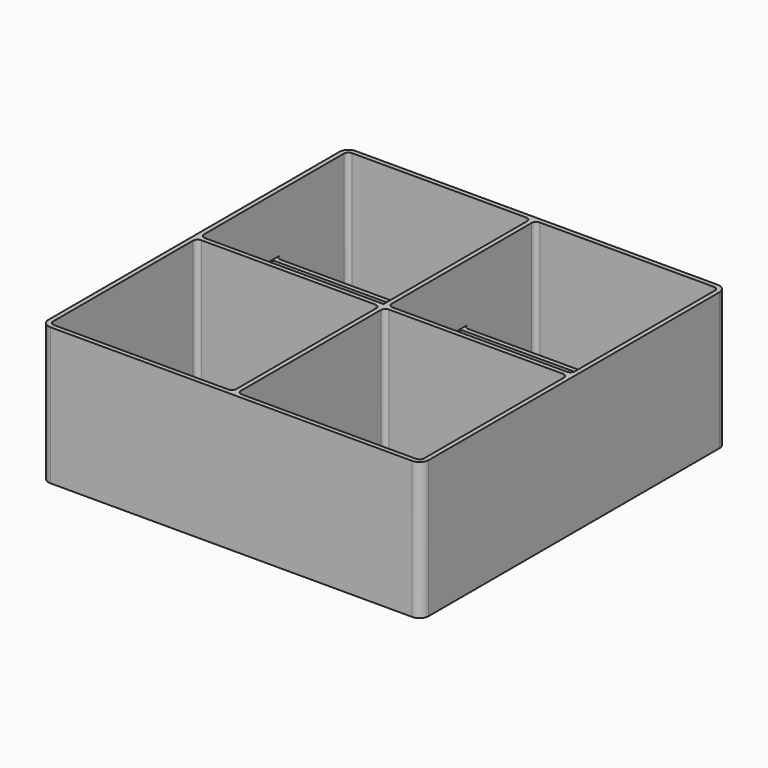
from build123d import *

# Parameters (mm, degrees)
F0_W      = 231
F0_H      = 100
F1_DEPTH  = 36
F2_W      = 48
F2_H      = 23.5
F2_H_2    = 48.2
F3_DEPTH  = 35.8
F4_W      = 48
F4_H      = 1.2
F5_DEPTH  = 15
F6_W      = 48
F6_H      = 97.6
F6_W_2    = 81
F7_DEPTH  = 35.8
F8_R      = 2.4
F9_R      = 1.2
F10_W     = 145.4325905085
F10_H     = 144.5563584566
F11_DEPTH = 40
F12_R     = 2.4


with BuildPart() as f1:
    # F0 (on Top) → F1 (new body)
    with BuildSketch(Plane.XY):
        Rectangle(F0_W, F0_H)
    extrude(amount=F1_DEPTH)

    # F2 (on face) → F3 (cut)
    with BuildSketch(Plane.XY.offset(36)):
        with Locations((41.1, 37.05)):
            Rectangle(F2_W, F2_H)
        with Locations((90.3, 37.05)):
            Rectangle(F2_W, F2_H)
        with Locations((41.1, 12.35)):
            Rectangle(F2_W, F2_H)
        with Locations((90.3, 12.35)):
            Rectangle(F2_W, F2_H)
        with Locations((41.1, -24.7)):
            Rectangle(F2_W, F2_H_2)
        with Locations((90.3, -24.7)):
            Rectangle(F2_W, F2_H_2)
    extrude(amount=-F3_DEPTH, mode=Mode.SUBTRACT)

    # F4 (on face) → F5 (cut)
    with BuildSketch(Plane.XY.offset(36)):
        with Locations((41.1, 24.7)):
            Rectangle(F4_W, F4_H)
        with Locations((90.3, 24.7)):
            Rectangle(F4_W, F4_H)
    extrude(amount=-F5_DEPTH, mode=Mode.SUBTRACT)

    # F6 (on face) → F7 (cut)
    with BuildSketch(Plane.XY.offset(36)):
        with Locations((-90.3, 0)):
            Rectangle(F6_W, F6_H)
        with Locations((-24.6, 0)):
            Rectangle(F6_W_2, F6_H)
    extrude(amount=-F7_DEPTH, mode=Mode.SUBTRACT)

    # F8
    f8_edges = [f1.edges().sort_by_distance(p)[0] for p in [
        (-115.5, -50, 18),
        (-115.5, 50, 18),
        (115.5, 50, 18),
        (115.5, -50, 18),
    ]]
    fillet(f8_edges, radius=F8_R)

    # F9
    f9_edges = [f1.edges().sort_by_distance(p)[0] for p in [
        (-90.3, 48.8, 0.2),
        (-114.3, 0, 0.2),
        (-90.3, -48.8, 0.2),
        (-66.3, 0, 0.2),
        (-24.6, 48.8, 0.2),
        (-65.1, 0, 0.2),
        (-24.6, -48.8, 0.2),
        (15.9, 0, 0.2),
        (41.1, 25.3, 0.2),
        (65.1, 37.05, 0.2),
        (41.1, 48.8, 0.2),
        (17.1, 37.05, 0.2),
        (114.3, 37.05, 0.2),
        (90.3, 48.8, 0.2),
        (66.3, 37.05, 0.2),
        (90.3, 25.3, 0.2),
        (65.1, 12.35, 0.2),
        (41.1, 24.1, 0.2),
        (17.1, 12.35, 0.2),
        (41.1, 0.6, 0.2),
        (90.3, 0.6, 0.2),
        (114.3, 12.35, 0.2),
        (90.3, 24.1, 0.2),
        (66.3, 12.35, 0.2),
        (17.1, -24.7, 0.2),
        (41.1, -48.8, 0.2),
        (65.1, -24.7, 0.2),
        (41.1, -0.6, 0.2),
        (114.3, -24.7, 0.2),
        (90.3, -0.6, 0.2),
        (66.3, -24.7, 0.2),
        (90.3, -48.8, 0.2),
        (-114.3, 48.8, 18.1),
        (-65.1, 48.8, 18.1),
        (-66.3, 48.8, 18.1),
        (-66.3, -48.8, 18.1),
        (-114.3, -48.8, 18.1),
        (15.9, 48.8, 18.1),
        (15.9, -48.8, 18.1),
        (-65.1, -48.8, 18.1),
        (17.1, -48.8, 18.1),
        (17.1, 0.6, 18.1),
        (17.1, 25.3, 10.6),
        (17.1, 48.8, 18.1),
        (17.1, 24.1, 10.6),
        (17.1, -0.6, 18.1),
        (65.1, -0.6, 18.1),
        (65.1, -48.8, 18.1),
        (65.1, 24.1, 10.6),
        (65.1, 25.3, 10.6),
        (65.1, 48.8, 18.1),
        (66.3, 48.8, 18.1),
        (114.3, 48.8, 18.1),
        (114.3, 24.1, 10.6),
        (114.3, 25.3, 10.6),
        (66.3, 25.3, 10.6),
        (66.3, 24.1, 10.6),
        (66.3, 0.6, 18.1),
        (66.3, -0.6, 18.1),
        (114.3, -0.6, 18.1),
        (114.3, 0.6, 18.1),
        (114.3, -48.8, 18.1),
        (66.3, -48.8, 18.1),
    ]]
    fillet(f9_edges, radius=F9_R)

    # F10 (on face) → F11 (cut)
    with BuildSketch(Plane.XY.offset(36)):
        with Locations((-56.8162952542, -9.1554522514)):
            Rectangle(F10_W, F10_H)
    extrude(amount=-F11_DEPTH, mode=Mode.SUBTRACT)

    # F12
    f12_edges = [f1.edges().sort_by_distance(p)[0] for p in [
        (15.9, 50, 18),
        (15.9, -50, 18),
    ]]
    fillet(f12_edges, radius=F12_R)


solid = f1.part
